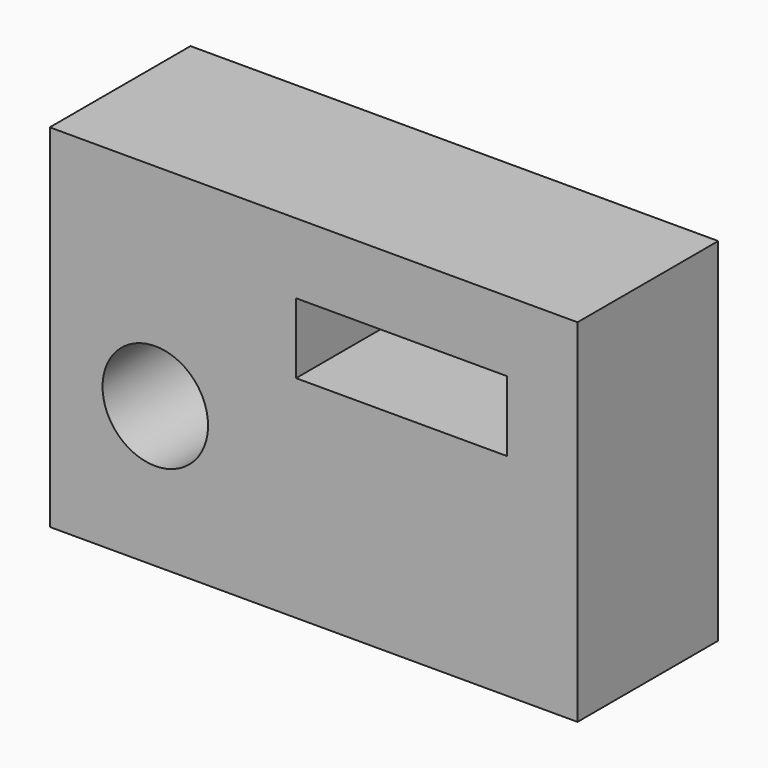
from build123d import *

# Parameters (mm, degrees)
F0_W     = 75
F0_H     = 50
F0_R     = 7.5
F0_W_2   = 30
F0_H_2   = 10
F1_DEPTH = 25


with BuildPart() as f1:
    # F0 (on Front) → F1 (new body)
    with BuildSketch(Plane.XZ):
        with Locations((22.5, 5)):
            Rectangle(F0_W, F0_H)
        Circle(F0_R, mode=Mode.SUBTRACT)
        with Locations((35, 15)):
            Rectangle(F0_W_2, F0_H_2, mode=Mode.SUBTRACT)
    extrude(amount=F1_DEPTH)


solid = f1.part
